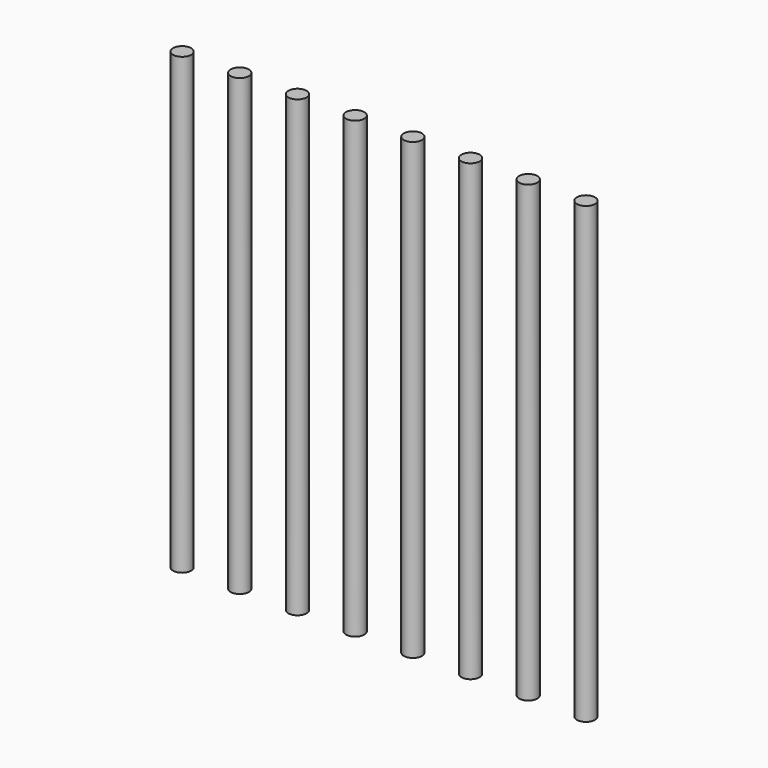
from build123d import *

# Parameters (mm, degrees)
CYLINDER_R       = 0.2
CYLINDER_DEPTH   = 10
ARRAY001_X_COUNT = 8
ARRAY001_X_PITCH = 1.27


with BuildPart() as part:
    # Cylinder → Cylinder (new body)
    with BuildSketch(Plane(origin=(18.155, 1.1, 0), x_dir=(1, 0, 0), z_dir=(0, 0, 1))):
        Circle(CYLINDER_R)
    extrude(amount=CYLINDER_DEPTH)

    # Array001 X: part ×8


with BuildPart() as part_1:
    add(part.part)
    with Locations(*[(i * ARRAY001_X_PITCH, 0, 0) for i in range(1, ARRAY001_X_COUNT)]):
        add(part.part)


solid = part_1.part
